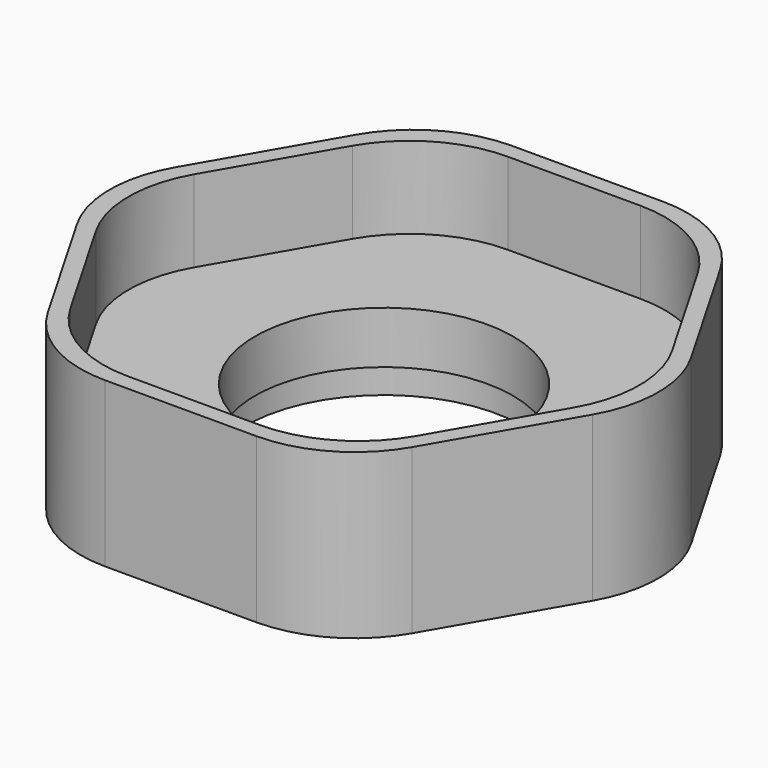
from build123d import *

# Parameters (mm, degrees)
F1_DEPTH  = 25.4
F3_DEPTH  = 12.7
F4_R      = 19.05
F5_R      = 19.05
F6_R      = 20
F7_DEPTH  = 12.7
F8_R      = 21.5
F9_DEPTH  = 4.6
F10_R     = 33
F10_R_2   = 26.5
F11_DEPTH = 4
F12_W     = 3.69096
F12_H     = 9.525
F13_DEPTH = 8.7


with BuildPart() as f1:
    # F0 (on Top) → F1 (new body)
    with BuildSketch(Plane.XY):
        Polygon((22.73028, 39.37), (-22.73028, 39.37), (-45.46056, 0), (-22.73028, -39.37), (22.73028, -39.37), (45.46056, 0), align=None)
    extrude(amount=F1_DEPTH)

    # F2 (on face) → F3 (cut)
    with BuildSketch(Plane.XY.offset(25.4)):
        Polygon((21.26381, 36.83), (-21.26381, 36.83), (-42.527621, 0), (-21.26381, -36.83), (21.26381, -36.83), (42.527621, 0), align=None)
    extrude(amount=-F3_DEPTH, mode=Mode.SUBTRACT)

    # F4
    f4_edges = [f1.edges().sort_by_distance(p)[0] for p in [
        (21.26381, 36.83, 19.05),
        (-21.26381, 36.83, 19.05),
        (-42.527621, 0, 19.05),
        (42.527621, 0, 19.05),
        (21.26381, -36.83, 19.05),
        (-21.26381, -36.83, 19.05),
    ]]
    fillet(f4_edges, radius=F4_R)

    # F5
    f5_edges = [f1.edges().sort_by_distance(p)[0] for p in [
        (-22.73028, -39.37, 12.7),
        (22.73028, -39.37, 12.7),
        (45.46056, 0, 12.7),
        (-45.46056, 0, 12.7),
        (-22.73028, 39.37, 12.7),
        (22.73028, 39.37, 12.7),
    ]]
    fillet(f5_edges, radius=F5_R)

    # F6 (on face) → F7 (cut, through all)
    with BuildSketch(Plane(origin=(0, 0, 0), x_dir=(1, 0, 0), z_dir=(0, 0, -1))):
        Circle(F6_R)
    extrude(amount=-F7_DEPTH, mode=Mode.SUBTRACT)

    # F8 (on face) → F9 (cut)
    with BuildSketch(Plane(origin=(0, 0, 0), x_dir=(1, 0, 0), z_dir=(0, 0, -1))):
        Circle(F8_R)
    extrude(amount=-F9_DEPTH, mode=Mode.SUBTRACT)

    # F10 (on face) → F11 (cut)
    with BuildSketch(Plane(origin=(0, 0, 0), x_dir=(1, 0, 0), z_dir=(0, 0, -1))):
        Circle(F10_R)
        Circle(F10_R_2, mode=Mode.SUBTRACT)
    extrude(amount=-F11_DEPTH, mode=Mode.SUBTRACT)

    # F12 (on face) → F13 (cut, through all)
    with BuildSketch(Plane(origin=(0, 0, 4), x_dir=(1, 0, 0), z_dir=(0, 0, -1))):
        with Locations((29.75, 4.7625)):
            Rectangle(F12_W, F12_H)
        with Locations((29.75, -4.7625)):
            Rectangle(F12_W, F12_H)
    extrude(amount=-F13_DEPTH, mode=Mode.SUBTRACT)


solid = f1.part
